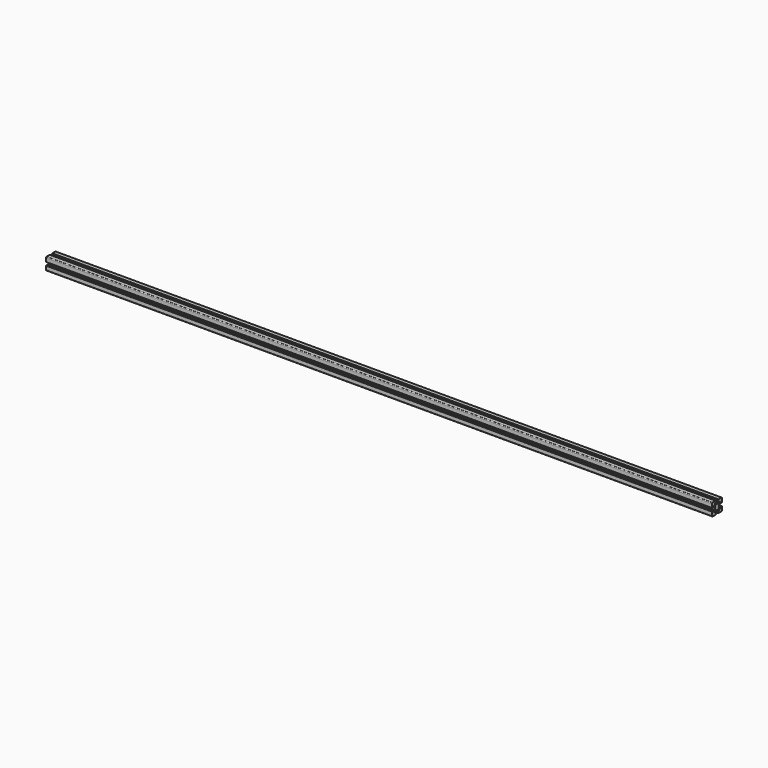
from build123d import *

# Parameters (mm, degrees)
F1_DEPTH = 2438.4


with BuildPart() as f1:
    # F0 (on Right) → F1 (new body)
    with BuildSketch(Plane.YZ):
        with BuildLine():
            Line((-20.088481, -9.788837), (-20.088481, -10.288837))
            Line((-20.088481, -10.288837), (-21.28859, -10.288837))
            ThreePointArc((-21.28859, -10.288837), (-21.500722, -10.376705), (-21.58859, -10.588837))
            Line((-21.58859, -10.588837), (-21.58859, -23.988949))
            ThreePointArc((-21.58859, -23.988949), (-20.70991, -26.11027), (-18.58859, -26.988949))
            Line((-18.58859, -26.988949), (-5.188544, -26.988949))
            ThreePointArc((-5.188544, -26.988949), (-4.976411, -26.901081), (-4.888544, -26.688949))
            Line((-4.888544, -26.688949), (-4.888544, -25.488841))
            Line((-4.888544, -25.488841), (-4.388544, -25.488841))
            ThreePointArc((-4.388544, -25.488841), (-4.176411, -25.400973), (-4.088544, -25.188841))
            Line((-4.088544, -25.188841), (-4.088544, -21.288841))
            ThreePointArc((-4.088544, -21.288841), (-4.176411, -21.076709), (-4.388544, -20.988841))
            Line((-4.388544, -20.988841), (-9.138663, -20.988841))
            Line((-9.138663, -20.988841), (-9.138663, -16.881665))
            Line((-9.138663, -16.881665), (-6.245729, -13.988731))
            Line((-6.245729, -13.988731), (-2.211433, -13.988731))
            ThreePointArc((-2.211433, -13.988731), (-0.669869, -14.363044), (0.91149, -14.48887))
            Line((0.91149, -14.48887), (0.91149, -4.48887))
            Line((0.91149, -4.48887), (-9.08851, -4.48887))
            ThreePointArc((-9.08851, -4.48887), (-8.962684, -6.070229), (-8.588371, -7.611793))
            Line((-8.588371, -7.611793), (-8.588371, -11.646022))
            Line((-8.588371, -11.646022), (-11.481305, -14.538956))
            Line((-11.481305, -14.538956), (-15.588481, -14.538956))
            Line((-15.588481, -14.538956), (-15.588481, -9.788837))
            ThreePointArc((-15.588481, -9.788837), (-15.676349, -9.576705), (-15.888481, -9.488837))
            Line((-15.888481, -9.488837), (-19.788481, -9.488837))
            ThreePointArc((-19.788481, -9.488837), (-20.000613, -9.576705), (-20.088481, -9.788837))
        make_face()
        with BuildLine():
            ThreePointArc((-8.588371, -1.365947), (-8.962684, -2.907511), (-9.08851, -4.48887))
            Line((-9.08851, -4.48887), (0.91149, -4.48887))
            Line((0.91149, -4.48887), (0.91149, 5.51113))
            ThreePointArc((0.91149, 5.51113), (-0.669869, 5.385303), (-2.211433, 5.010991))
            Line((-2.211433, 5.010991), (-6.245729, 5.010991))
            Line((-6.245729, 5.010991), (-9.138663, 7.903925))
            Line((-9.138663, 7.903925), (-9.138663, 12.011101))
            Line((-9.138663, 12.011101), (-4.388544, 12.011101))
            ThreePointArc((-4.388544, 12.011101), (-4.176411, 12.098969), (-4.088544, 12.311101))
            Line((-4.088544, 12.311101), (-4.088544, 16.211101))
            ThreePointArc((-4.088544, 16.211101), (-4.176411, 16.423233), (-4.388544, 16.511101))
            Line((-4.388544, 16.511101), (-4.888544, 16.511101))
            Line((-4.888544, 16.511101), (-4.888544, 17.711209))
            ThreePointArc((-4.888544, 17.711209), (-4.976411, 17.923341), (-5.188544, 18.011209))
            Line((-5.188544, 18.011209), (-18.58859, 18.011209))
            ThreePointArc((-18.58859, 18.011209), (-20.70991, 17.13253), (-21.58859, 15.011209))
            Line((-21.58859, 15.011209), (-21.58859, 1.611097))
            ThreePointArc((-21.58859, 1.611097), (-21.500722, 1.398965), (-21.28859, 1.311097))
            Line((-21.28859, 1.311097), (-20.088481, 1.311097))
            Line((-20.088481, 1.311097), (-20.088481, 0.811097))
            ThreePointArc((-20.088481, 0.811097), (-20.000613, 0.598965), (-19.788481, 0.511097))
            Line((-19.788481, 0.511097), (-15.888481, 0.511097))
            ThreePointArc((-15.888481, 0.511097), (-15.676349, 0.598965), (-15.588481, 0.811097))
            Line((-15.588481, 0.811097), (-15.588481, 5.561216))
            Line((-15.588481, 5.561216), (-11.481305, 5.561216))
            Line((-11.481305, 5.561216), (-8.588371, 2.668282))
            Line((-8.588371, 2.668282), (-8.588371, -1.365947))
        make_face()
        with BuildLine():
            Line((0.91149, 5.51113), (0.91149, -4.48887))
            Line((0.91149, -4.48887), (10.91149, -4.48887))
            ThreePointArc((10.91149, -4.48887), (10.785663, -2.907511), (10.41135, -1.365947))
            Line((10.41135, -1.365947), (10.41135, 2.668282))
            Line((10.41135, 2.668282), (13.304285, 5.561216))
            Line((13.304285, 5.561216), (14.016842, 5.561216))
            Line((14.016842, 5.561216), (17.41146, 5.561216))
            Line((17.41146, 5.561216), (17.41146, 0.811097))
            ThreePointArc((17.41146, 0.811097), (17.499328, 0.598965), (17.71146, 0.511097))
            Line((17.71146, 0.511097), (21.61146, 0.511097))
            ThreePointArc((21.61146, 0.511097), (21.823593, 0.598965), (21.91146, 0.811097))
            Line((21.91146, 0.811097), (21.91146, 1.311097))
            Line((21.91146, 1.311097), (23.111569, 1.311097))
            ThreePointArc((23.111569, 1.311097), (23.323701, 1.398965), (23.411569, 1.611097))
            Line((23.411569, 1.611097), (23.411569, 15.011209))
            ThreePointArc((23.411569, 15.011209), (22.532889, 17.13253), (20.411569, 18.011209))
            Line((20.411569, 18.011209), (7.011523, 18.011209))
            ThreePointArc((7.011523, 18.011209), (6.799391, 17.923341), (6.711523, 17.711209))
            Line((6.711523, 17.711209), (6.711523, 16.511101))
            Line((6.711523, 16.511101), (6.211523, 16.511101))
            ThreePointArc((6.211523, 16.511101), (5.999391, 16.423233), (5.911523, 16.211101))
            Line((5.911523, 16.211101), (5.911523, 12.311101))
            ThreePointArc((5.911523, 12.311101), (5.999391, 12.098969), (6.211523, 12.011101))
            Line((6.211523, 12.011101), (10.961642, 12.011101))
            Line((10.961642, 12.011101), (10.961642, 7.903925))
            Line((10.961642, 7.903925), (8.068708, 5.010991))
            Line((8.068708, 5.010991), (4.034413, 5.010991))
            ThreePointArc((4.034413, 5.010991), (2.492849, 5.385303), (0.91149, 5.51113))
        make_face()
        with BuildLine():
            Line((10.91149, -4.48887), (0.91149, -4.48887))
            Line((0.91149, -4.48887), (0.91149, -14.48887))
            ThreePointArc((0.91149, -14.48887), (2.492849, -14.363044), (4.034413, -13.988731))
            Line((4.034413, -13.988731), (8.068708, -13.988731))
            Line((8.068708, -13.988731), (10.961642, -16.881665))
            Line((10.961642, -16.881665), (10.961642, -20.988841))
            Line((10.961642, -20.988841), (6.211523, -20.988841))
            ThreePointArc((6.211523, -20.988841), (5.999391, -21.076709), (5.911523, -21.288841))
            Line((5.911523, -21.288841), (5.911523, -25.188841))
            ThreePointArc((5.911523, -25.188841), (5.999391, -25.400973), (6.211523, -25.488841))
            Line((6.211523, -25.488841), (6.711523, -25.488841))
            Line((6.711523, -25.488841), (6.711523, -26.688949))
            ThreePointArc((6.711523, -26.688949), (6.799391, -26.901081), (7.011523, -26.988949))
            Line((7.011523, -26.988949), (20.411569, -26.988949))
            ThreePointArc((20.411569, -26.988949), (22.532889, -26.11027), (23.411569, -23.988949))
            Line((23.411569, -23.988949), (23.411569, -10.588837))
            ThreePointArc((23.411569, -10.588837), (23.323701, -10.376705), (23.111569, -10.288837))
            Line((23.111569, -10.288837), (21.91146, -10.288837))
            Line((21.91146, -10.288837), (21.91146, -9.788837))
            ThreePointArc((21.91146, -9.788837), (21.823593, -9.576705), (21.61146, -9.488837))
            Line((21.61146, -9.488837), (17.71146, -9.488837))
            ThreePointArc((17.71146, -9.488837), (17.499328, -9.576705), (17.41146, -9.788837))
            Line((17.41146, -9.788837), (17.41146, -14.538956))
            Line((17.41146, -14.538956), (13.304285, -14.538956))
            Line((13.304285, -14.538956), (10.41135, -11.646022))
            Line((10.41135, -11.646022), (10.41135, -7.611793))
            ThreePointArc((10.41135, -7.611793), (10.785663, -6.070229), (10.91149, -4.48887))
        make_face()
    extrude(amount=F1_DEPTH)


solid = f1.part
